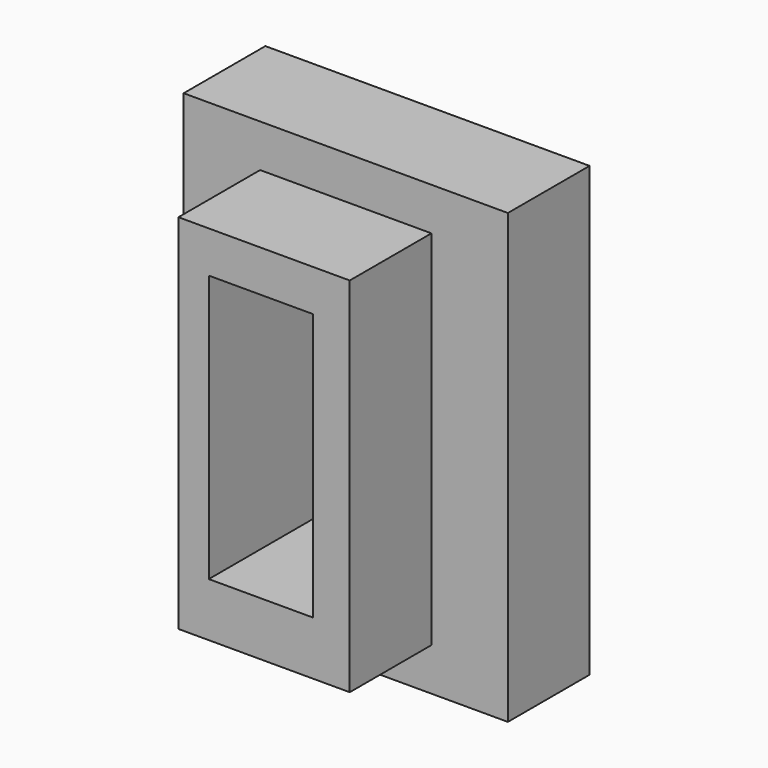
from build123d import *

# Parameters (mm, degrees)
F0_W     = 80.655814
F0_H     = 111.451716
F1_DEPTH = 25.4
F2_W     = 47.660246
F2_H     = 87.988168
F3_DEPTH = 25.4
F4_W     = 42.61583
F4_H     = 90.175256
F4_W_2   = 25.895656
F4_H_2   = 66.464574
F5_DEPTH = 25.4
F6_W     = 25.895656
F6_H     = 66.464574
F7_DEPTH = 31.594573


with BuildPart() as f1:
    # F0 (on Front) → F1 (new body)
    with BuildSketch(Plane.XZ):
        Rectangle(F0_W, F0_H)
    extrude(amount=F1_DEPTH)

    # F2 (on Front) → F3 (join)
    with BuildSketch(Plane.XZ):
        Rectangle(F2_W, F2_H)
    extrude(amount=F3_DEPTH)

    # F4 (on face) → F5 (join)
    with BuildSketch(Plane.XZ.offset(25.4)):
        Rectangle(F4_W, F4_H)
        with Locations((-0.807181, 1.524575)):
            Rectangle(F4_W_2, F4_H_2, mode=Mode.SUBTRACT)
    extrude(amount=F5_DEPTH)

    # F6 (on face) → F7 (cut)
    with BuildSketch(Plane.XZ.offset(25.4)):
        with Locations((-0.807181, 1.524575)):
            Rectangle(F6_W, F6_H)
    extrude(amount=-F7_DEPTH, mode=Mode.SUBTRACT)


solid = f1.part
